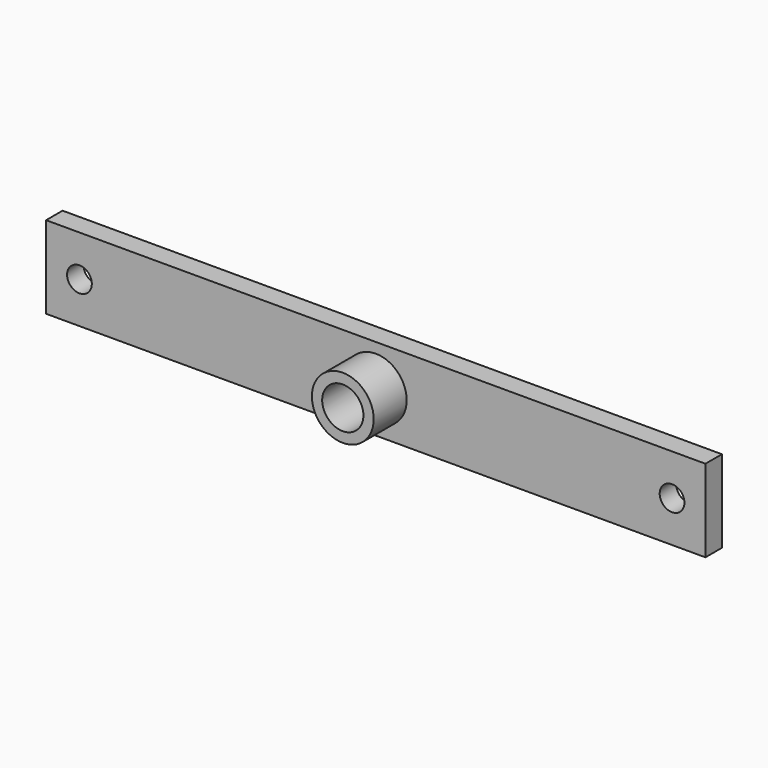
from build123d import *

# Parameters (mm, degrees)
F0_W     = 203.2
F0_H     = 25.4
F1_DEPTH = 3.175
F2_R     = 9.525
F2_R_2   = 6.35
F3_DEPTH = 12.7
F4_R     = 3.81
F5_DEPTH = 6.351


with BuildPart() as f1:
    # F0 (on Front) → F1 (new body, symmetric)
    with BuildSketch(Plane.XZ):
        Rectangle(F0_W, F0_H)
    extrude(amount=F1_DEPTH, both=True)

    # F4 (on face) → F5 (cut, through all)
    with BuildSketch(Plane.XZ.offset(3.175)):
        with Locations((-91.312926, 0)):
            Circle(F4_R)
        with Locations((91.312926, 0)):
            Circle(F4_R)
    extrude(amount=-F5_DEPTH, mode=Mode.SUBTRACT)


with BuildPart() as f3:
    # F2 (on face) → F3 (new body)
    with BuildSketch(Plane.XZ.offset(3.175)):
        Circle(F2_R)
        Circle(F2_R_2, mode=Mode.SUBTRACT)
    extrude(amount=F3_DEPTH)


solid = Compound([f1.part, f3.part])
